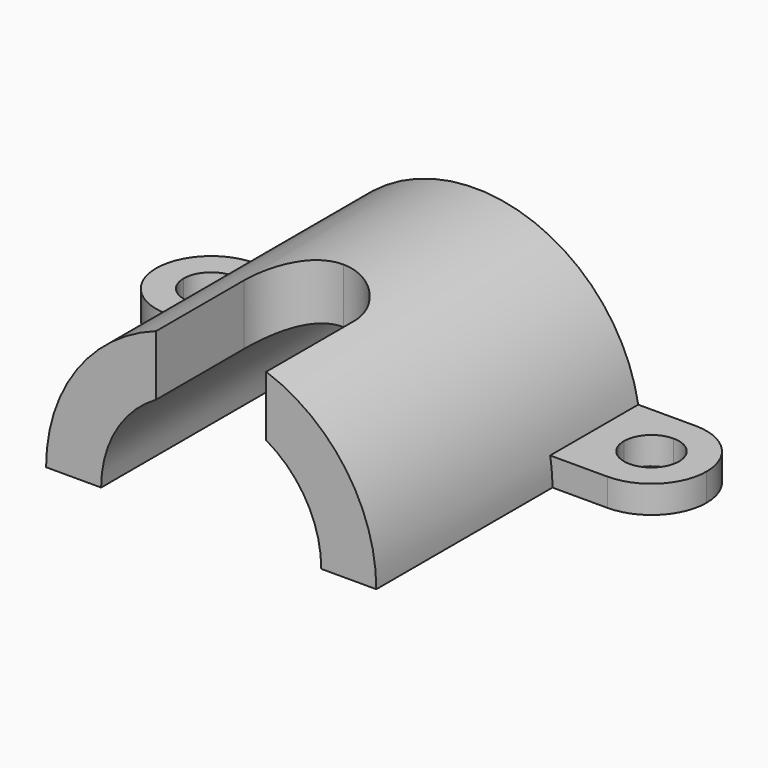
from build123d import *

# Parameters (mm, degrees)
F1_DEPTH = 60
F2_W     = 20
F2_H     = 5
F3_DEPTH = 50
F5_DEPTH = 60.001
F6_W     = 10
F6_H     = 20
F7_DEPTH = 30.001
F8_DEPTH = 5.0010001


with BuildPart() as f1:
    # F0 (on Front) → F1 (new body)
    with BuildSketch(Plane.XZ):
        with BuildLine():
            ThreePointArc((0, 20), (-14.1421356237, 14.1421356237), (-20, 0))
            Line((-20, 0), (0, 0))
            Line((0, 0), (0, 20))
        make_face()
        with BuildLine():
            ThreePointArc((0, 30), (-21.2132034356, 21.2132034356), (-30, 0))
            Line((-30, 0), (-20, 0))
            ThreePointArc((-20, 0), (-14.1421356237, 14.1421356237), (0, 20))
            Line((0, 20), (0, 30))
        make_face()
    extrude(amount=-F1_DEPTH)

    # F2 (on face) → F3 (join)
    with BuildSketch(Plane.YZ):
        with Locations((50, 2.5)):
            Rectangle(F2_W, F2_H)
    extrude(amount=-F3_DEPTH)

    # F0 (on Front) → F5 (cut, through all)
    with BuildSketch(Plane.XZ):
        with BuildLine():
            ThreePointArc((0, 20), (-14.1421356237, 14.1421356237), (-20, 0))
            Line((-20, 0), (0, 0))
            Line((0, 0), (0, 20))
        make_face()
    extrude(amount=-F5_DEPTH, mode=Mode.SUBTRACT)

    # F6 (on Top) → F7 (cut, through all)
    with BuildSketch(Plane.XY):
        with Locations((-5, 10)):
            Rectangle(F6_W, F6_H)
        with BuildLine():
            Line((-10, 20), (0, 20))
            Line((0, 20), (0, 30))
            ThreePointArc((0, 30), (-7.0710678119, 27.0710678119), (-10, 20))
        make_face()
    extrude(amount=F7_DEPTH, mode=Mode.SUBTRACT)

    # F4 (on face) → F8 (cut, through all)
    with BuildSketch(Plane.XY.offset(5)):
        with BuildLine():
            ThreePointArc((-40, 40), (-47.0710678119, 42.9289321881), (-50, 50))
            Line((-50, 50), (-50, 40))
            Line((-50, 40), (-40, 40))
        make_face()
        with BuildLine():
            Line((-40, 60), (-50, 60))
            Line((-50, 60), (-50, 50))
            ThreePointArc((-50, 50), (-47.0710678119, 57.0710678119), (-40, 60))
        make_face()
        with BuildLine():
            Line((-40, 50), (-45, 50))
            ThreePointArc((-45, 50), (-43.5355339059, 46.4644660941), (-40, 45))
            Line((-40, 45), (-40, 50))
        make_face()
        with BuildLine():
            Line((-35, 50), (-40, 50))
            Line((-40, 50), (-40, 45))
            ThreePointArc((-40, 45), (-36.4644660941, 46.4644660941), (-35, 50))
        make_face()
        with BuildLine():
            ThreePointArc((-35, 50), (-36.4644660941, 53.5355339059), (-40, 55))
            Line((-40, 55), (-40, 50))
            Line((-40, 50), (-35, 50))
        make_face()
        with BuildLine():
            ThreePointArc((-40, 55), (-43.5355339059, 53.5355339059), (-45, 50))
            Line((-45, 50), (-40, 50))
            Line((-40, 50), (-40, 55))
        make_face()
    extrude(amount=-F8_DEPTH, mode=Mode.SUBTRACT)

    # F9: F1 across plane


with BuildPart() as f1_1:
    add(f1.part)
    add(f1.part.mirror(Plane.YZ))


solid = f1_1.part
